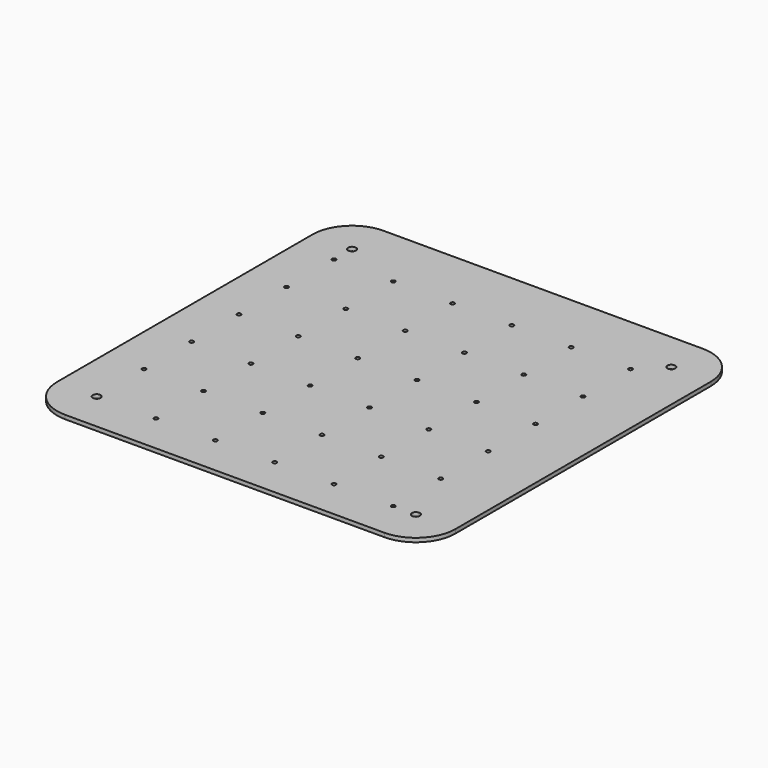
from build123d import *

# Parameters (mm, degrees)
F1_DEPTH = 10
F2_R     = 5
F3_DEPTH = 25


with BuildPart() as f1:
    # F0 (on Top) → F1 (new body)
    with BuildSketch(Plane.XY):
        with BuildLine():
            Line((-468.4109687805, 555.472633), (-468.4109687805, -251.860697))
            ThreePointArc((-468.4109687805, -251.860697), (-439.1216468991, -322.5713751186), (-368.4109687805, -351.860697))
            Line((-368.4109687805, -351.860697), (438.9223612195, -351.860697))
            ThreePointArc((438.9223612195, -351.860697), (509.6330393381, -322.5713751186), (538.9223612195, -251.860697))
            Line((538.9223612195, -251.860697), (538.9223612195, 555.472633))
            ThreePointArc((538.9223612195, 555.472633), (509.6330393382, 626.1833111187), (438.9223612195, 655.472633))
            Line((438.9223612195, 655.472633), (-368.4109687805, 655.472633))
            ThreePointArc((-368.4109687805, 655.472633), (-439.1216468992, 626.1833111187), (-468.4109687805, 555.472633))
        make_face()
        with BuildLine():
            Line((428.9223612195, -251.860697), (-358.4109687805, -251.860697))
            ThreePointArc((-358.4109687805, -251.860697), (-375.4820365924, -258.9317648119), (-368.4109687805, -241.860697))
            Line((-368.4109687805, -241.860697), (-368.4109687805, 545.472633))
            ThreePointArc((-368.4109687805, 545.472633), (-375.4820365924, 562.5437008119), (-358.4109687805, 555.472633))
            Line((-358.4109687805, 555.472633), (428.9223612195, 555.472633))
            ThreePointArc((428.9223612195, 555.472633), (438.9223612195, 565.472633), (448.9223612195, 555.472633))
            ThreePointArc((448.9223612195, 555.472633), (445.9934290313, 548.4015651881), (438.9223612195, 545.472633))
            Line((438.9223612195, 545.472633), (438.9223612195, -241.860697))
            ThreePointArc((438.9223612195, -241.860697), (445.9934290313, -244.7896291881), (448.9223612195, -251.860697))
            ThreePointArc((448.9223612195, -251.860697), (438.9223612195, -261.860697), (428.9223612195, -251.860697))
        make_face(mode=Mode.SUBTRACT)
        with BuildLine():
            ThreePointArc((-368.4109687805, -241.860697), (-361.3399009687, -244.7896291881), (-358.4109687805, -251.860697))
            Line((-358.4109687805, -251.860697), (428.9223612195, -251.860697))
            ThreePointArc((428.9223612195, -251.860697), (431.8512934076, -244.7896291881), (438.9223612195, -241.860697))
            Line((438.9223612195, -241.860697), (438.9223612195, 545.472633))
            ThreePointArc((438.9223612195, 545.472633), (431.8512934076, 548.4015651881), (428.9223612195, 555.472633))
            Line((428.9223612195, 555.472633), (-358.4109687805, 555.472633))
            ThreePointArc((-358.4109687805, 555.472633), (-361.3399009687, 548.4015651881), (-368.4109687805, 545.472633))
            Line((-368.4109687805, 545.472633), (-368.4109687805, -241.860697))
        make_face()
    extrude(amount=F1_DEPTH)

    # F2 (on face) → F3 (cut)
    with BuildSketch(Plane.XY.offset(10)):
        with Locations((-368.4109687805, -101.860697)):
            Circle(F2_R)
        with Locations((-368.4109687805, 48.139303)):
            Circle(F2_R)
        with Locations((-218.4109687805, 48.139303)):
            Circle(F2_R)
        with Locations((-218.4109687805, -101.860697)):
            Circle(F2_R)
        with BuildLine():
            ThreePointArc((-213.4109687805, -251.860697), (-218.4109687805, -246.860697), (-223.4109687805, -251.860697))
            ThreePointArc((-223.4109687805, -251.860697), (-218.4109687805, -256.860697), (-213.4109687805, -251.860697))
        make_face()
        with Locations((-68.4109687805, -251.860697)):
            Circle(F2_R)
        with Locations((81.5890312195, -251.860697)):
            Circle(F2_R)
        with Locations((-68.4109687805, -101.860697)):
            Circle(F2_R)
        with Locations((-68.4109687805, 48.139303)):
            Circle(F2_R)
        with Locations((81.5890312195, -101.860697)):
            Circle(F2_R)
        with Locations((-368.4109687805, 198.139303)):
            Circle(F2_R)
        with Locations((-218.4109687805, 198.139303)):
            Circle(F2_R)
        with Locations((-68.4109687805, 198.139303)):
            Circle(F2_R)
        with Locations((81.5890312195, 198.139303)):
            Circle(F2_R)
        with Locations((81.5890312195, 48.139303)):
            Circle(F2_R)
        with Locations((-218.4109687805, 348.139303)):
            Circle(F2_R)
        with Locations((-368.4109687805, 348.139303)):
            Circle(F2_R)
        with Locations((-368.4109687805, 498.139303)):
            Circle(F2_R)
        with Locations((-218.4109687805, 498.139303)):
            Circle(F2_R)
        with Locations((-68.4109687805, 348.139303)):
            Circle(F2_R)
        with Locations((-68.4109687805, 498.139303)):
            Circle(F2_R)
        with Locations((81.5890312195, 348.139303)):
            Circle(F2_R)
        with Locations((81.5890312195, 498.139303)):
            Circle(F2_R)
        with Locations((231.5890312195, 348.139303)):
            Circle(F2_R)
        with Locations((231.5890312195, 498.139303)):
            Circle(F2_R)
        with Locations((381.5890312195, 498.139303)):
            Circle(F2_R)
        with Locations((381.5890312195, 348.139303)):
            Circle(F2_R)
        with Locations((231.5890312195, 198.139303)):
            Circle(F2_R)
        with Locations((381.5890312195, 198.139303)):
            Circle(F2_R)
        with Locations((381.5890312195, 48.139303)):
            Circle(F2_R)
        with Locations((231.5890312195, 48.139303)):
            Circle(F2_R)
        with Locations((231.5890312195, -101.860697)):
            Circle(F2_R)
        with Locations((381.5890312195, -101.860697)):
            Circle(F2_R)
        with Locations((381.5890312195, -251.860697)):
            Circle(F2_R)
        with Locations((231.5890312195, -251.860697)):
            Circle(F2_R)
    extrude(amount=-F3_DEPTH, mode=Mode.SUBTRACT)


solid = f1.part
